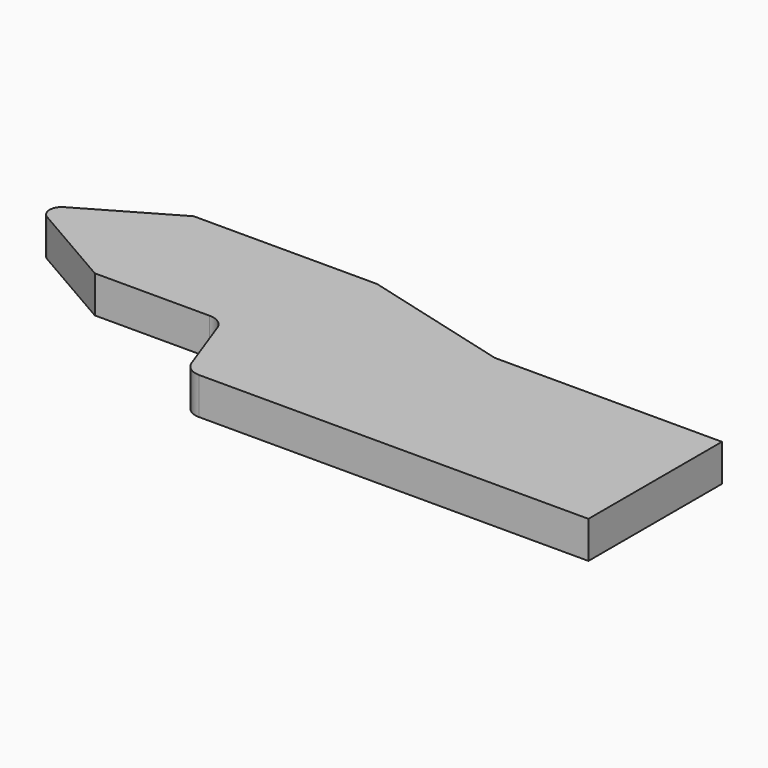
from build123d import *

# Parameters (mm, degrees)
F1_DEPTH = 76.2


with BuildPart() as f1:
    # F0 (on Top) → F1 (new body)
    with BuildSketch(Plane.XY):
        with BuildLine():
            Line((-799.919396, 0), (0, 0))
            Line((0, 0), (0, 342.9))
            Line((0, 342.9), (-466.619206, 342.9))
            Line((-466.619206, 342.9), (-774.7, 425.45))
            Line((-774.7, 425.45), (-1151.629547, 425.45))
            Line((-1151.629547, 425.45), (-1333.5, 320.447045))
            ThreePointArc((-1333.5, 320.447045), (-1346.2, 298.45), (-1333.5, 276.452955))
            Line((-1333.5, 276.452955), (-1151.629547, 171.45))
            Line((-1151.629547, 171.45), (-915.677907, 171.45))
            ThreePointArc((-915.677907, 171.45), (-893.824645, 164.559693), (-879.875618, 146.380967))
            Line((-879.875618, 146.380967), (-835.721685, 25.069033))
            ThreePointArc((-835.721685, 25.069033), (-821.772658, 6.890307), (-799.919396, 0))
        make_face()
    extrude(amount=F1_DEPTH)


solid = f1.part
